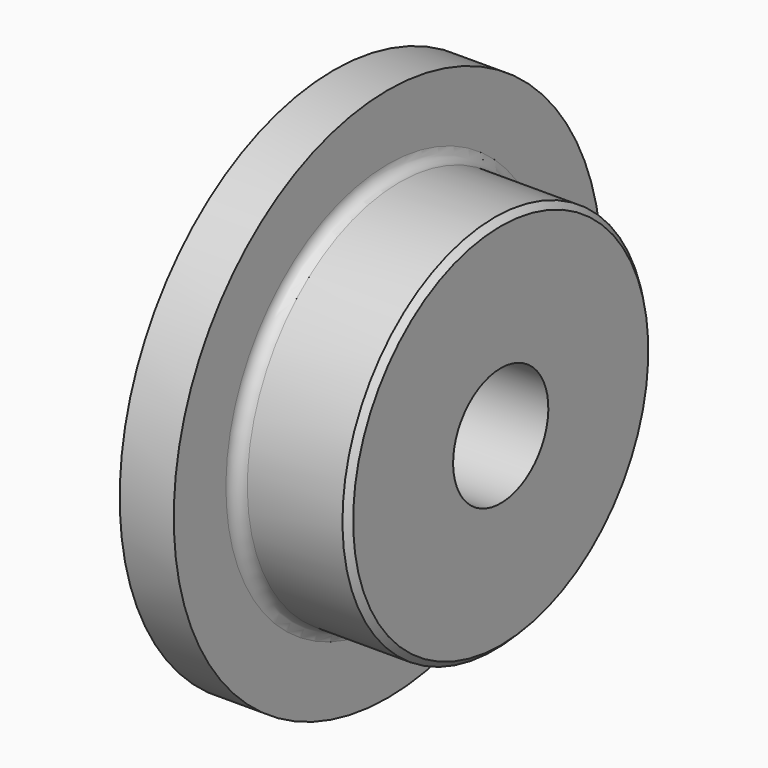
from build123d import *

# Parameters (mm, degrees)
F0_W    = 15.065
F0_H    = 17.4625
F0_W_2  = 7.21
F0_H_2  = 10.285
F2_R    = 1.5875
F3_SIZE = 0.793


with BuildPart() as f1:
    # F0 (on Front) → F1 (revolve)
    with BuildSketch(Plane.XZ):
        with Locations((14.7425, 16.66875)):
            Rectangle(F0_W, F0_H)
        with Locations((3.605, 16.66875)):
            Rectangle(F0_W_2, F0_H)
        with Locations((3.605, 30.5425)):
            Rectangle(F0_W_2, F0_H_2)
    revolve(axis=Axis((11.1375, 0, 0), (1, 0, 0)))

    # F2
    f2_edges = [f1.edges().sort_by_distance(p)[0] for p in [
        (7.21, 0, -25.4),
    ]]
    fillet(f2_edges, radius=F2_R)

    # F3
    f3_edges = [f1.edges().sort_by_distance(p)[0] for p in [
        (22.275, 0, -25.4),
    ]]
    chamfer(f3_edges, length=F3_SIZE)


solid = f1.part
